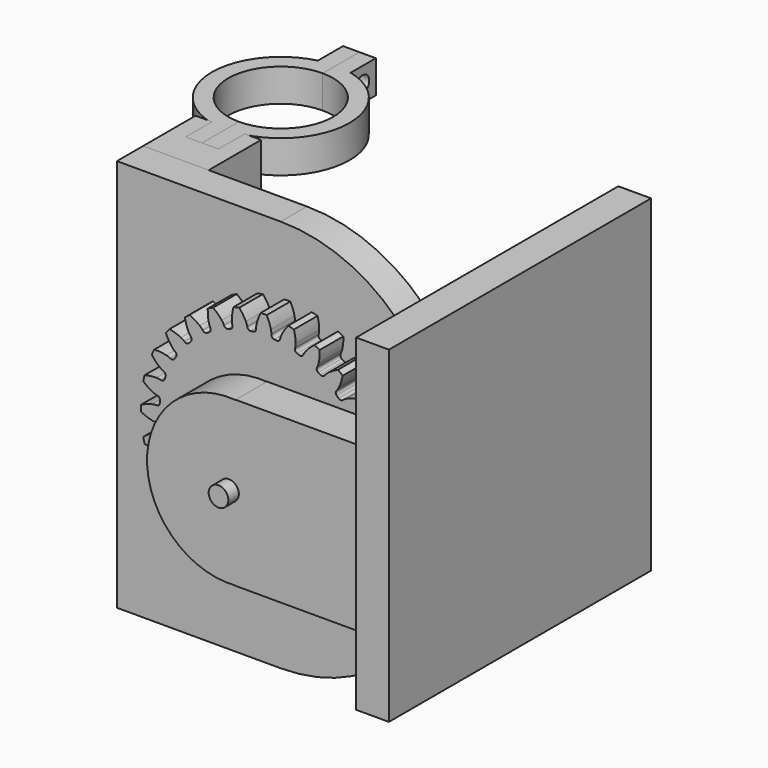
from build123d import *

# Parameters (mm, degrees)
EXTRUDE_DEPTH             = 10
EXTRUDE_PLACEMENT_ANGLE   = 90
CYLINDER017_R             = 3
CYLINDER017_DEPTH         = 12
CYLINDER016_R             = 25
CYLINDER016_DEPTH         = 12
BOX015_W                  = 70
BOX015_H                  = 50
BOX015_DEPTH              = 12
FUSION008_PLACEMENT_ANGLE = 90
CYLINDER019_R             = 3
CYLINDER019_DEPTH         = 12
CYLINDER018_R             = 25
CYLINDER018_DEPTH         = 12
BOX016_W                  = 70
BOX016_H                  = 50
BOX016_DEPTH              = 12
FUSION009_PLACEMENT_ANGLE = 90
BOX017_W                  = 10
BOX017_H                  = 100
BOX017_DEPTH              = 100
CYLINDER020_R             = 3
CYLINDER020_DEPTH         = 60
BOX014_W                  = 100
BOX014_H                  = 10
BOX014_DEPTH              = 120
FILLET_R                  = 50
FILLET001_R               = 50
CYLINDER023_R             = 16
CYLINDER023_DEPTH         = 10
BOX001_W                  = 21
BOX001_H                  = 60
BOX001_DEPTH              = 10
CYLINDER003_R             = 2.5
CYLINDER003_DEPTH         = 10
CYLINDER_R                = 2.5
CYLINDER_DEPTH            = 10
CYLINDER021_R             = 16
CYLINDER021_DEPTH         = 10
CYLINDER022_R             = 21
CYLINDER022_DEPTH         = 10
BOX_W                     = 10
BOX_H                     = 60
BOX_DEPTH                 = 10
CUT021_PLACEMENT_ANGLE    = 180
CYLINDER028_R             = 16
CYLINDER028_DEPTH         = 10
BOX019_W                  = 21
BOX019_H                  = 60
BOX019_DEPTH              = 10
CYLINDER024_R             = 2.5
CYLINDER024_DEPTH         = 10
CYLINDER025_R             = 2.5
CYLINDER025_DEPTH         = 10
CYLINDER026_R             = 16
CYLINDER026_DEPTH         = 10
CYLINDER027_R             = 21
CYLINDER027_DEPTH         = 10
BOX018_W                  = 10
BOX018_H                  = 60
BOX018_DEPTH              = 10
CYLINDER033_R             = 16
CYLINDER033_DEPTH         = 10
BOX021_W                  = 21
BOX021_H                  = 60
BOX021_DEPTH              = 10
CYLINDER029_R             = 2.5
CYLINDER029_DEPTH         = 10
CYLINDER030_R             = 2.5
CYLINDER030_DEPTH         = 10
CYLINDER031_R             = 16
CYLINDER031_DEPTH         = 10
CYLINDER032_R             = 21
CYLINDER032_DEPTH         = 10
BOX020_W                  = 10
BOX020_H                  = 60
BOX020_DEPTH              = 10
CUT027_PLACEMENT_ANGLE    = 180
CYLINDER038_R             = 16
CYLINDER038_DEPTH         = 10
BOX023_W                  = 21
BOX023_H                  = 60
BOX023_DEPTH              = 10
CYLINDER035_R             = 2.5
CYLINDER035_DEPTH         = 10
CYLINDER036_R             = 2.5
CYLINDER036_DEPTH         = 10
CYLINDER037_R             = 16
CYLINDER037_DEPTH         = 10
CYLINDER034_R             = 21
CYLINDER034_DEPTH         = 10
BOX022_W                  = 10
BOX022_H                  = 60
BOX022_DEPTH              = 10
BOX012_W                  = 10
BOX012_H                  = 10
BOX012_DEPTH              = 120
BOX013_W                  = 20
BOX013_H                  = 20
BOX013_DEPTH              = 120


with BuildPart() as extrude_body:
    # InvoluteGear → Extrude (new body)
    with BuildSketch(Plane.XY):
        with BuildLine():
            Line((32.716459, -2.32692), (32.856946, -2.335013))
            add(Edge.make_bspline(
                [(32.856946, -2.335013), (32.990949, -2.337125), (33.394798, -2.328721), (34.06713, -2.188651)],
                knots=[0, 0, 0, 0, 1, 1, 1, 1], degree=3))
            add(Edge.make_bspline(
                [(34.06713, -2.188651), (34.873016, -2.018801), (36.038338, -1.661329), (37.491435, -0.912795)],
                knots=[0, 0, 0, 0, 1, 1, 1, 1], degree=3))
            ThreePointArc((37.491435, -0.912795), (37.502546, 0), (37.491435, 0.912795))
            add(Edge.make_bspline(
                [(37.491435, 0.912795), (36.038338, 1.661329), (34.873016, 2.018801), (34.06713, 2.188651)],
                knots=[0, 0, 0, 0, 1, 1, 1, 1], degree=3))
            add(Edge.make_bspline(
                [(34.06713, 2.188651), (33.394798, 2.328721), (32.990949, 2.337125), (32.856946, 2.335013)],
                knots=[0, 0, 0, 0, 1, 1, 1, 1], degree=3))
            Line((32.856946, 2.335013), (32.716459, 2.32692))
            ThreePointArc((32.716459, 2.32692), (32.04606, 2.544962), (31.71713, 3.168486))
            ThreePointArc((31.71713, 3.168486), (31.674577, 3.568868), (31.62697, 3.96868))
            ThreePointArc((31.62697, 3.96868), (31.808906, 4.649765), (32.413977, 5.011518))
            Line((32.413977, 5.011518), (32.552743, 5.034889))
            add(Edge.make_bspline(
                [(32.552743, 5.034889), (32.683857, 5.062649), (33.07571, 5.160707), (33.700017, 5.446872)],
                knots=[0, 0, 0, 0, 1, 1, 1, 1], degree=3))
            add(Edge.make_bspline(
                [(33.700017, 5.446872), (34.447903, 5.791791), (35.504462, 6.399608), (36.754562, 7.45272)],
                knots=[0, 0, 0, 0, 1, 1, 1, 1], degree=3))
            ThreePointArc((36.754562, 7.45272), (36.562279, 8.345102), (36.348331, 9.232538))
            add(Edge.make_bspline(
                [(36.348331, 9.232538), (34.765101, 9.638961), (33.549452, 9.728162), (32.725976, 9.714427)],
                knots=[0, 0, 0, 0, 1, 1, 1, 1], degree=3))
            add(Edge.make_bspline(
                [(32.725976, 9.714427), (32.039332, 9.701377), (31.643738, 9.619705), (31.513565, 9.587827)],
                knots=[0, 0, 0, 0, 1, 1, 1, 1], degree=3))
            Line((31.513565, 9.587827), (31.378401, 9.548676))
            ThreePointArc((31.378401, 9.548676), (30.676291, 9.612074), (30.216861, 10.146771))
            ThreePointArc((30.216861, 10.146771), (30.086281, 10.527645), (29.950901, 10.90684))
            ThreePointArc((29.950901, 10.90684), (29.97672, 11.611333), (30.486124, 12.098658))
            Line((30.486124, 12.098658), (30.61621, 12.152321))
            add(Edge.make_bspline(
                [(30.61621, 12.152321), (30.737859, 12.20856), (31.098067, 12.391355), (31.643044, 12.809267)],
                knots=[0, 0, 0, 0, 1, 1, 1, 1], degree=3))
            add(Edge.make_bspline(
                [(31.643044, 12.809267), (32.295427, 13.311958), (33.190244, 14.139643), (34.174663, 15.444524)],
                knots=[0, 0, 0, 0, 1, 1, 1, 1], degree=3))
            ThreePointArc((34.174663, 15.444524), (33.788626, 16.271745), (33.382569, 17.089324))
            add(Edge.make_bspline(
                [(33.382569, 17.089324), (31.748597, 17.133255), (30.543577, 16.949712), (29.743804, 16.753081)],
                knots=[0, 0, 0, 0, 1, 1, 1, 1], degree=3))
            add(Edge.make_bspline(
                [(29.743804, 16.753081), (29.077279, 16.587565), (28.709778, 16.419913), (28.589961, 16.359868)],
                knots=[0, 0, 0, 0, 1, 1, 1, 1], degree=3))
            Line((28.589961, 16.359868), (28.466899, 16.291622))
            ThreePointArc((28.466899, 16.291622), (27.768285, 16.197196), (27.201392, 16.616254))
            ThreePointArc((27.201392, 16.616254), (26.989334, 16.958522), (26.772969, 17.298085))
            ThreePointArc((26.772969, 17.298085), (26.641377, 17.99066), (27.029568, 18.57912))
            Line((27.029568, 18.57912), (27.144452, 18.660384))
            add(Edge.make_bspline(
                [(27.144452, 18.660384), (27.250536, 18.742283), (27.561038, 19.000649), (27.999357, 19.529352)],
                knots=[0, 0, 0, 0, 1, 1, 1, 1], degree=3))
            add(Edge.make_bspline(
                [(27.999357, 19.529352), (28.523524, 20.164608), (29.211729, 21.170657), (29.881102, 22.661876)],
                knots=[0, 0, 0, 0, 1, 1, 1, 1], degree=3))
            ThreePointArc((29.881102, 22.661876), (29.320671, 23.382455), (28.742866, 24.089179))
            add(Edge.make_bspline(
                [(28.742866, 24.089179), (27.140085, 23.768415), (26.00612, 23.321332), (25.270153, 22.951665)],
                knots=[0, 0, 0, 0, 1, 1, 1, 1], degree=3))
            add(Edge.make_bspline(
                [(25.270153, 22.951665), (24.657171, 22.641983), (24.336189, 22.396758), (24.232738, 22.311557)],
                knots=[0, 0, 0, 0, 1, 1, 1, 1], degree=3))
            Line((24.232738, 22.311557), (24.127947, 22.217638))
            ThreePointArc((24.127947, 22.217638), (23.467861, 21.970123), (22.821932, 22.252529))
            ThreePointArc((22.821932, 22.252529), (22.539029, 22.539029), (22.252529, 22.821932))
            ThreePointArc((22.252529, 22.821932), (21.970123, 23.467861), (22.217638, 24.127947))
            Line((22.217638, 24.127947), (22.311557, 24.232738))
            add(Edge.make_bspline(
                [(22.311557, 24.232738), (22.396758, 24.336189), (22.641983, 24.657171), (22.951665, 25.270153)],
                knots=[0, 0, 0, 0, 1, 1, 1, 1], degree=3))
            add(Edge.make_bspline(
                [(22.951665, 25.270153), (23.321332, 26.00612), (23.768415, 27.140085), (24.089179, 28.742866)],
                knots=[0, 0, 0, 0, 1, 1, 1, 1], degree=3))
            ThreePointArc((24.089179, 28.742866), (23.382455, 29.320671), (22.661876, 29.881102))
            add(Edge.make_bspline(
                [(22.661876, 29.881102), (21.170657, 29.211729), (20.164608, 28.523524), (19.529352, 27.999357)],
                knots=[0, 0, 0, 0, 1, 1, 1, 1], degree=3))
            add(Edge.make_bspline(
                [(19.529352, 27.999357), (19.000649, 27.561038), (18.742283, 27.250536), (18.660384, 27.144452)],
                knots=[0, 0, 0, 0, 1, 1, 1, 1], degree=3))
            Line((18.660384, 27.144452), (18.57912, 27.029568))
            ThreePointArc((18.57912, 27.029568), (17.99066, 26.641377), (17.298085, 26.772969))
            ThreePointArc((17.298085, 26.772969), (16.958522, 26.989334), (16.616254, 27.201392))
            ThreePointArc((16.616254, 27.201392), (16.197196, 27.768285), (16.291622, 28.466899))
            Line((16.291622, 28.466899), (16.359868, 28.589961))
            add(Edge.make_bspline(
                [(16.359868, 28.589961), (16.419913, 28.709778), (16.587565, 29.077279), (16.753081, 29.743804)],
                knots=[0, 0, 0, 0, 1, 1, 1, 1], degree=3))
            add(Edge.make_bspline(
                [(16.753081, 29.743804), (16.949712, 30.543577), (17.133255, 31.748597), (17.089324, 33.382569)],
                knots=[0, 0, 0, 0, 1, 1, 1, 1], degree=3))
            ThreePointArc((17.089324, 33.382569), (16.271745, 33.788626), (15.444524, 34.174663))
            add(Edge.make_bspline(
                [(15.444524, 34.174663), (14.139643, 33.190244), (13.311958, 32.295427), (12.809267, 31.643044)],
                knots=[0, 0, 0, 0, 1, 1, 1, 1], degree=3))
            add(Edge.make_bspline(
                [(12.809267, 31.643044), (12.391355, 31.098067), (12.20856, 30.737859), (12.152321, 30.61621)],
                knots=[0, 0, 0, 0, 1, 1, 1, 1], degree=3))
            Line((12.152321, 30.61621), (12.098658, 30.486124))
            ThreePointArc((12.098658, 30.486124), (11.611333, 29.97672), (10.90684, 29.950901))
            ThreePointArc((10.90684, 29.950901), (10.527645, 30.086281), (10.146771, 30.216861))
            ThreePointArc((10.146771, 30.216861), (9.612074, 30.676291), (9.548676, 31.378401))
            Line((9.548676, 31.378401), (9.587827, 31.513565))
            add(Edge.make_bspline(
                [(9.587827, 31.513565), (9.619705, 31.643738), (9.701377, 32.039332), (9.714427, 32.725976)],
                knots=[0, 0, 0, 0, 1, 1, 1, 1], degree=3))
            add(Edge.make_bspline(
                [(9.714427, 32.725976), (9.728162, 33.549452), (9.638961, 34.765101), (9.232538, 36.348331)],
                knots=[0, 0, 0, 0, 1, 1, 1, 1], degree=3))
            ThreePointArc((9.232538, 36.348331), (8.345102, 36.562279), (7.45272, 36.754562))
            add(Edge.make_bspline(
                [(7.45272, 36.754562), (6.399608, 35.504462), (5.791791, 34.447903), (5.446872, 33.700017)],
                knots=[0, 0, 0, 0, 1, 1, 1, 1], degree=3))
            add(Edge.make_bspline(
                [(5.446872, 33.700017), (5.160707, 33.07571), (5.062649, 32.683857), (5.034889, 32.552743)],
                knots=[0, 0, 0, 0, 1, 1, 1, 1], degree=3))
            Line((5.034889, 32.552743), (5.011518, 32.413977))
            ThreePointArc((5.011518, 32.413977), (4.649765, 31.808906), (3.96868, 31.62697))
            ThreePointArc((3.96868, 31.62697), (3.568868, 31.674577), (3.168486, 31.71713))
            ThreePointArc((3.168486, 31.71713), (2.544962, 32.04606), (2.32692, 32.716459))
            Line((2.32692, 32.716459), (2.335013, 32.856946))
            add(Edge.make_bspline(
                [(2.335013, 32.856946), (2.337125, 32.990949), (2.328721, 33.394798), (2.188651, 34.06713)],
                knots=[0, 0, 0, 0, 1, 1, 1, 1], degree=3))
            add(Edge.make_bspline(
                [(2.188651, 34.06713), (2.018801, 34.873016), (1.661329, 36.038338), (0.912795, 37.491435)],
                knots=[0, 0, 0, 0, 1, 1, 1, 1], degree=3))
            ThreePointArc((0.912795, 37.491435), (0, 37.502546), (-0.912795, 37.491435))
            add(Edge.make_bspline(
                [(-0.912795, 37.491435), (-1.661329, 36.038338), (-2.018801, 34.873016), (-2.188651, 34.06713)],
                knots=[0, 0, 0, 0, 1, 1, 1, 1], degree=3))
            add(Edge.make_bspline(
                [(-2.188651, 34.06713), (-2.328721, 33.394798), (-2.337125, 32.990949), (-2.335013, 32.856946)],
                knots=[0, 0, 0, 0, 1, 1, 1, 1], degree=3))
            Line((-2.335013, 32.856946), (-2.32692, 32.716459))
            ThreePointArc((-2.32692, 32.716459), (-2.544962, 32.04606), (-3.168486, 31.71713))
            ThreePointArc((-3.168486, 31.71713), (-3.568868, 31.674577), (-3.96868, 31.62697))
            ThreePointArc((-3.96868, 31.62697), (-4.649765, 31.808906), (-5.011518, 32.413977))
            Line((-5.011518, 32.413977), (-5.034889, 32.552743))
            add(Edge.make_bspline(
                [(-5.034889, 32.552743), (-5.062649, 32.683857), (-5.160707, 33.07571), (-5.446872, 33.700017)],
                knots=[0, 0, 0, 0, 1, 1, 1, 1], degree=3))
            add(Edge.make_bspline(
                [(-5.446872, 33.700017), (-5.791791, 34.447903), (-6.399608, 35.504462), (-7.45272, 36.754562)],
                knots=[0, 0, 0, 0, 1, 1, 1, 1], degree=3))
            ThreePointArc((-7.45272, 36.754562), (-8.345102, 36.562279), (-9.232538, 36.348331))
            add(Edge.make_bspline(
                [(-9.232538, 36.348331), (-9.638961, 34.765101), (-9.728162, 33.549452), (-9.714427, 32.725976)],
                knots=[0, 0, 0, 0, 1, 1, 1, 1], degree=3))
            add(Edge.make_bspline(
                [(-9.714427, 32.725976), (-9.701377, 32.039332), (-9.619705, 31.643738), (-9.587827, 31.513565)],
                knots=[0, 0, 0, 0, 1, 1, 1, 1], degree=3))
            Line((-9.587827, 31.513565), (-9.548676, 31.378401))
            ThreePointArc((-9.548676, 31.378401), (-9.612074, 30.676291), (-10.146771, 30.216861))
            ThreePointArc((-10.146771, 30.216861), (-10.527645, 30.086281), (-10.90684, 29.950901))
            ThreePointArc((-10.90684, 29.950901), (-11.611333, 29.97672), (-12.098658, 30.486124))
            Line((-12.098658, 30.486124), (-12.152321, 30.61621))
            add(Edge.make_bspline(
                [(-12.152321, 30.61621), (-12.20856, 30.737859), (-12.391355, 31.098067), (-12.809267, 31.643044)],
                knots=[0, 0, 0, 0, 1, 1, 1, 1], degree=3))
            add(Edge.make_bspline(
                [(-12.809267, 31.643044), (-13.311958, 32.295427), (-14.139643, 33.190244), (-15.444524, 34.174663)],
                knots=[0, 0, 0, 0, 1, 1, 1, 1], degree=3))
            ThreePointArc((-15.444524, 34.174663), (-16.271745, 33.788626), (-17.089324, 33.382569))
            add(Edge.make_bspline(
                [(-17.089324, 33.382569), (-17.133255, 31.748597), (-16.949712, 30.543577), (-16.753081, 29.743804)],
                knots=[0, 0, 0, 0, 1, 1, 1, 1], degree=3))
            add(Edge.make_bspline(
                [(-16.753081, 29.743804), (-16.587565, 29.077279), (-16.419913, 28.709778), (-16.359868, 28.589961)],
                knots=[0, 0, 0, 0, 1, 1, 1, 1], degree=3))
            Line((-16.359868, 28.589961), (-16.291622, 28.466899))
            ThreePointArc((-16.291622, 28.466899), (-16.197196, 27.768285), (-16.616254, 27.201392))
            ThreePointArc((-16.616254, 27.201392), (-16.958522, 26.989334), (-17.298085, 26.772969))
            ThreePointArc((-17.298085, 26.772969), (-17.99066, 26.641377), (-18.57912, 27.029568))
            Line((-18.57912, 27.029568), (-18.660384, 27.144452))
            add(Edge.make_bspline(
                [(-18.660384, 27.144452), (-18.742283, 27.250536), (-19.000649, 27.561038), (-19.529352, 27.999357)],
                knots=[0, 0, 0, 0, 1, 1, 1, 1], degree=3))
            add(Edge.make_bspline(
                [(-19.529352, 27.999357), (-20.164608, 28.523524), (-21.170657, 29.211729), (-22.661876, 29.881102)],
                knots=[0, 0, 0, 0, 1, 1, 1, 1], degree=3))
            ThreePointArc((-22.661876, 29.881102), (-23.382455, 29.320671), (-24.089179, 28.742866))
            add(Edge.make_bspline(
                [(-24.089179, 28.742866), (-23.768415, 27.140085), (-23.321332, 26.00612), (-22.951665, 25.270153)],
                knots=[0, 0, 0, 0, 1, 1, 1, 1], degree=3))
            add(Edge.make_bspline(
                [(-22.951665, 25.270153), (-22.641983, 24.657171), (-22.396758, 24.336189), (-22.311557, 24.232738)],
                knots=[0, 0, 0, 0, 1, 1, 1, 1], degree=3))
            Line((-22.311557, 24.232738), (-22.217638, 24.127947))
            ThreePointArc((-22.217638, 24.127947), (-21.970123, 23.467861), (-22.252529, 22.821932))
            ThreePointArc((-22.252529, 22.821932), (-22.539029, 22.539029), (-22.821932, 22.252529))
            ThreePointArc((-22.821932, 22.252529), (-23.467861, 21.970123), (-24.127947, 22.217638))
            Line((-24.127947, 22.217638), (-24.232738, 22.311557))
            add(Edge.make_bspline(
                [(-24.232738, 22.311557), (-24.336189, 22.396758), (-24.657171, 22.641983), (-25.270153, 22.951665)],
                knots=[0, 0, 0, 0, 1, 1, 1, 1], degree=3))
            add(Edge.make_bspline(
                [(-25.270153, 22.951665), (-26.00612, 23.321332), (-27.140085, 23.768415), (-28.742866, 24.089179)],
                knots=[0, 0, 0, 0, 1, 1, 1, 1], degree=3))
            ThreePointArc((-28.742866, 24.089179), (-29.320671, 23.382455), (-29.881102, 22.661876))
            add(Edge.make_bspline(
                [(-29.881102, 22.661876), (-29.211729, 21.170657), (-28.523524, 20.164608), (-27.999357, 19.529352)],
                knots=[0, 0, 0, 0, 1, 1, 1, 1], degree=3))
            add(Edge.make_bspline(
                [(-27.999357, 19.529352), (-27.561038, 19.000649), (-27.250536, 18.742283), (-27.144452, 18.660384)],
                knots=[0, 0, 0, 0, 1, 1, 1, 1], degree=3))
            Line((-27.144452, 18.660384), (-27.029568, 18.57912))
            ThreePointArc((-27.029568, 18.57912), (-26.641377, 17.99066), (-26.772969, 17.298085))
            ThreePointArc((-26.772969, 17.298085), (-26.989334, 16.958522), (-27.201392, 16.616254))
            ThreePointArc((-27.201392, 16.616254), (-27.768285, 16.197196), (-28.466899, 16.291622))
            Line((-28.466899, 16.291622), (-28.589961, 16.359868))
            add(Edge.make_bspline(
                [(-28.589961, 16.359868), (-28.709778, 16.419913), (-29.077279, 16.587565), (-29.743804, 16.753081)],
                knots=[0, 0, 0, 0, 1, 1, 1, 1], degree=3))
            add(Edge.make_bspline(
                [(-29.743804, 16.753081), (-30.543577, 16.949712), (-31.748597, 17.133255), (-33.382569, 17.089324)],
                knots=[0, 0, 0, 0, 1, 1, 1, 1], degree=3))
            ThreePointArc((-33.382569, 17.089324), (-33.788626, 16.271745), (-34.174663, 15.444524))
            add(Edge.make_bspline(
                [(-34.174663, 15.444524), (-33.190244, 14.139643), (-32.295427, 13.311958), (-31.643044, 12.809267)],
                knots=[0, 0, 0, 0, 1, 1, 1, 1], degree=3))
            add(Edge.make_bspline(
                [(-31.643044, 12.809267), (-31.098067, 12.391355), (-30.737859, 12.20856), (-30.61621, 12.152321)],
                knots=[0, 0, 0, 0, 1, 1, 1, 1], degree=3))
            Line((-30.61621, 12.152321), (-30.486124, 12.098658))
            ThreePointArc((-30.486124, 12.098658), (-29.97672, 11.611333), (-29.950901, 10.90684))
            ThreePointArc((-29.950901, 10.90684), (-30.086281, 10.527645), (-30.216861, 10.146771))
            ThreePointArc((-30.216861, 10.146771), (-30.676291, 9.612074), (-31.378401, 9.548676))
            Line((-31.378401, 9.548676), (-31.513565, 9.587827))
            add(Edge.make_bspline(
                [(-31.513565, 9.587827), (-31.643738, 9.619705), (-32.039332, 9.701377), (-32.725976, 9.714427)],
                knots=[0, 0, 0, 0, 1, 1, 1, 1], degree=3))
            add(Edge.make_bspline(
                [(-32.725976, 9.714427), (-33.549452, 9.728162), (-34.765101, 9.638961), (-36.348331, 9.232538)],
                knots=[0, 0, 0, 0, 1, 1, 1, 1], degree=3))
            ThreePointArc((-36.348331, 9.232538), (-36.562279, 8.345102), (-36.754562, 7.45272))
            add(Edge.make_bspline(
                [(-36.754562, 7.45272), (-35.504462, 6.399608), (-34.447903, 5.791791), (-33.700017, 5.446872)],
                knots=[0, 0, 0, 0, 1, 1, 1, 1], degree=3))
            add(Edge.make_bspline(
                [(-33.700017, 5.446872), (-33.07571, 5.160707), (-32.683857, 5.062649), (-32.552743, 5.034889)],
                knots=[0, 0, 0, 0, 1, 1, 1, 1], degree=3))
            Line((-32.552743, 5.034889), (-32.413977, 5.011518))
            ThreePointArc((-32.413977, 5.011518), (-31.808906, 4.649765), (-31.62697, 3.96868))
            ThreePointArc((-31.62697, 3.96868), (-31.674577, 3.568868), (-31.71713, 3.168486))
            ThreePointArc((-31.71713, 3.168486), (-32.04606, 2.544962), (-32.716459, 2.32692))
            Line((-32.716459, 2.32692), (-32.856946, 2.335013))
            add(Edge.make_bspline(
                [(-32.856946, 2.335013), (-32.990949, 2.337125), (-33.394798, 2.328721), (-34.06713, 2.188651)],
                knots=[0, 0, 0, 0, 1, 1, 1, 1], degree=3))
            add(Edge.make_bspline(
                [(-34.06713, 2.188651), (-34.873016, 2.018801), (-36.038338, 1.661329), (-37.491435, 0.912795)],
                knots=[0, 0, 0, 0, 1, 1, 1, 1], degree=3))
            ThreePointArc((-37.491435, 0.912795), (-37.502546, 0), (-37.491435, -0.912795))
            add(Edge.make_bspline(
                [(-37.491435, -0.912795), (-36.038338, -1.661329), (-34.873016, -2.018801), (-34.06713, -2.188651)],
                knots=[0, 0, 0, 0, 1, 1, 1, 1], degree=3))
            add(Edge.make_bspline(
                [(-34.06713, -2.188651), (-33.394798, -2.328721), (-32.990949, -2.337125), (-32.856946, -2.335013)],
                knots=[0, 0, 0, 0, 1, 1, 1, 1], degree=3))
            Line((-32.856946, -2.335013), (-32.716459, -2.32692))
            ThreePointArc((-32.716459, -2.32692), (-32.04606, -2.544962), (-31.71713, -3.168486))
            ThreePointArc((-31.71713, -3.168486), (-31.674577, -3.568868), (-31.62697, -3.96868))
            ThreePointArc((-31.62697, -3.96868), (-31.808906, -4.649765), (-32.413977, -5.011518))
            Line((-32.413977, -5.011518), (-32.552743, -5.034889))
            add(Edge.make_bspline(
                [(-32.552743, -5.034889), (-32.683857, -5.062649), (-33.07571, -5.160707), (-33.700017, -5.446872)],
                knots=[0, 0, 0, 0, 1, 1, 1, 1], degree=3))
            add(Edge.make_bspline(
                [(-33.700017, -5.446872), (-34.447903, -5.791791), (-35.504462, -6.399608), (-36.754562, -7.45272)],
                knots=[0, 0, 0, 0, 1, 1, 1, 1], degree=3))
            ThreePointArc((-36.754562, -7.45272), (-36.562279, -8.345102), (-36.348331, -9.232538))
            add(Edge.make_bspline(
                [(-36.348331, -9.232538), (-34.765101, -9.638961), (-33.549452, -9.728162), (-32.725976, -9.714427)],
                knots=[0, 0, 0, 0, 1, 1, 1, 1], degree=3))
            add(Edge.make_bspline(
                [(-32.725976, -9.714427), (-32.039332, -9.701377), (-31.643738, -9.619705), (-31.513565, -9.587827)],
                knots=[0, 0, 0, 0, 1, 1, 1, 1], degree=3))
            Line((-31.513565, -9.587827), (-31.378401, -9.548676))
            ThreePointArc((-31.378401, -9.548676), (-30.676291, -9.612074), (-30.216861, -10.146771))
            ThreePointArc((-30.216861, -10.146771), (-30.086281, -10.527645), (-29.950901, -10.90684))
            ThreePointArc((-29.950901, -10.90684), (-29.97672, -11.611333), (-30.486124, -12.098658))
            Line((-30.486124, -12.098658), (-30.61621, -12.152321))
            add(Edge.make_bspline(
                [(-30.61621, -12.152321), (-30.737859, -12.20856), (-31.098067, -12.391355), (-31.643044, -12.809267)],
                knots=[0, 0, 0, 0, 1, 1, 1, 1], degree=3))
            add(Edge.make_bspline(
                [(-31.643044, -12.809267), (-32.295427, -13.311958), (-33.190244, -14.139643), (-34.174663, -15.444524)],
                knots=[0, 0, 0, 0, 1, 1, 1, 1], degree=3))
            ThreePointArc((-34.174663, -15.444524), (-33.788626, -16.271745), (-33.382569, -17.089324))
            add(Edge.make_bspline(
                [(-33.382569, -17.089324), (-31.748597, -17.133255), (-30.543577, -16.949712), (-29.743804, -16.753081)],
                knots=[0, 0, 0, 0, 1, 1, 1, 1], degree=3))
            add(Edge.make_bspline(
                [(-29.743804, -16.753081), (-29.077279, -16.587565), (-28.709778, -16.419913), (-28.589961, -16.359868)],
                knots=[0, 0, 0, 0, 1, 1, 1, 1], degree=3))
            Line((-28.589961, -16.359868), (-28.466899, -16.291622))
            ThreePointArc((-28.466899, -16.291622), (-27.768285, -16.197196), (-27.201392, -16.616254))
            ThreePointArc((-27.201392, -16.616254), (-26.989334, -16.958522), (-26.772969, -17.298085))
            ThreePointArc((-26.772969, -17.298085), (-26.641377, -17.99066), (-27.029568, -18.57912))
            Line((-27.029568, -18.57912), (-27.144452, -18.660384))
            add(Edge.make_bspline(
                [(-27.144452, -18.660384), (-27.250536, -18.742283), (-27.561038, -19.000649), (-27.999357, -19.529352)],
                knots=[0, 0, 0, 0, 1, 1, 1, 1], degree=3))
            add(Edge.make_bspline(
                [(-27.999357, -19.529352), (-28.523524, -20.164608), (-29.211729, -21.170657), (-29.881102, -22.661876)],
                knots=[0, 0, 0, 0, 1, 1, 1, 1], degree=3))
            ThreePointArc((-29.881102, -22.661876), (-29.320671, -23.382455), (-28.742866, -24.089179))
            add(Edge.make_bspline(
                [(-28.742866, -24.089179), (-27.140085, -23.768415), (-26.00612, -23.321332), (-25.270153, -22.951665)],
                knots=[0, 0, 0, 0, 1, 1, 1, 1], degree=3))
            add(Edge.make_bspline(
                [(-25.270153, -22.951665), (-24.657171, -22.641983), (-24.336189, -22.396758), (-24.232738, -22.311557)],
                knots=[0, 0, 0, 0, 1, 1, 1, 1], degree=3))
            Line((-24.232738, -22.311557), (-24.127947, -22.217638))
            ThreePointArc((-24.127947, -22.217638), (-23.467861, -21.970123), (-22.821932, -22.252529))
            ThreePointArc((-22.821932, -22.252529), (-22.539029, -22.539029), (-22.252529, -22.821932))
            ThreePointArc((-22.252529, -22.821932), (-21.970123, -23.467861), (-22.217638, -24.127947))
            Line((-22.217638, -24.127947), (-22.311557, -24.232738))
            add(Edge.make_bspline(
                [(-22.311557, -24.232738), (-22.396758, -24.336189), (-22.641983, -24.657171), (-22.951665, -25.270153)],
                knots=[0, 0, 0, 0, 1, 1, 1, 1], degree=3))
            add(Edge.make_bspline(
                [(-22.951665, -25.270153), (-23.321332, -26.00612), (-23.768415, -27.140085), (-24.089179, -28.742866)],
                knots=[0, 0, 0, 0, 1, 1, 1, 1], degree=3))
            ThreePointArc((-24.089179, -28.742866), (-23.382455, -29.320671), (-22.661876, -29.881102))
            add(Edge.make_bspline(
                [(-22.661876, -29.881102), (-21.170657, -29.211729), (-20.164608, -28.523524), (-19.529352, -27.999357)],
                knots=[0, 0, 0, 0, 1, 1, 1, 1], degree=3))
            add(Edge.make_bspline(
                [(-19.529352, -27.999357), (-19.000649, -27.561038), (-18.742283, -27.250536), (-18.660384, -27.144452)],
                knots=[0, 0, 0, 0, 1, 1, 1, 1], degree=3))
            Line((-18.660384, -27.144452), (-18.57912, -27.029568))
            ThreePointArc((-18.57912, -27.029568), (-17.99066, -26.641377), (-17.298085, -26.772969))
            ThreePointArc((-17.298085, -26.772969), (-16.958522, -26.989334), (-16.616254, -27.201392))
            ThreePointArc((-16.616254, -27.201392), (-16.197196, -27.768285), (-16.291622, -28.466899))
            Line((-16.291622, -28.466899), (-16.359868, -28.589961))
            add(Edge.make_bspline(
                [(-16.359868, -28.589961), (-16.419913, -28.709778), (-16.587565, -29.077279), (-16.753081, -29.743804)],
                knots=[0, 0, 0, 0, 1, 1, 1, 1], degree=3))
            add(Edge.make_bspline(
                [(-16.753081, -29.743804), (-16.949712, -30.543577), (-17.133255, -31.748597), (-17.089324, -33.382569)],
                knots=[0, 0, 0, 0, 1, 1, 1, 1], degree=3))
            ThreePointArc((-17.089324, -33.382569), (-16.271745, -33.788626), (-15.444524, -34.174663))
            add(Edge.make_bspline(
                [(-15.444524, -34.174663), (-14.139643, -33.190244), (-13.311958, -32.295427), (-12.809267, -31.643044)],
                knots=[0, 0, 0, 0, 1, 1, 1, 1], degree=3))
            add(Edge.make_bspline(
                [(-12.809267, -31.643044), (-12.391355, -31.098067), (-12.20856, -30.737859), (-12.152321, -30.61621)],
                knots=[0, 0, 0, 0, 1, 1, 1, 1], degree=3))
            Line((-12.152321, -30.61621), (-12.098658, -30.486124))
            ThreePointArc((-12.098658, -30.486124), (-11.611333, -29.97672), (-10.90684, -29.950901))
            ThreePointArc((-10.90684, -29.950901), (-10.527645, -30.086281), (-10.146771, -30.216861))
            ThreePointArc((-10.146771, -30.216861), (-9.612074, -30.676291), (-9.548676, -31.378401))
            Line((-9.548676, -31.378401), (-9.587827, -31.513565))
            add(Edge.make_bspline(
                [(-9.587827, -31.513565), (-9.619705, -31.643738), (-9.701377, -32.039332), (-9.714427, -32.725976)],
                knots=[0, 0, 0, 0, 1, 1, 1, 1], degree=3))
            add(Edge.make_bspline(
                [(-9.714427, -32.725976), (-9.728162, -33.549452), (-9.638961, -34.765101), (-9.232538, -36.348331)],
                knots=[0, 0, 0, 0, 1, 1, 1, 1], degree=3))
            ThreePointArc((-9.232538, -36.348331), (-8.345102, -36.562279), (-7.45272, -36.754562))
            add(Edge.make_bspline(
                [(-7.45272, -36.754562), (-6.399608, -35.504462), (-5.791791, -34.447903), (-5.446872, -33.700017)],
                knots=[0, 0, 0, 0, 1, 1, 1, 1], degree=3))
            add(Edge.make_bspline(
                [(-5.446872, -33.700017), (-5.160707, -33.07571), (-5.062649, -32.683857), (-5.034889, -32.552743)],
                knots=[0, 0, 0, 0, 1, 1, 1, 1], degree=3))
            Line((-5.034889, -32.552743), (-5.011518, -32.413977))
            ThreePointArc((-5.011518, -32.413977), (-4.649765, -31.808906), (-3.96868, -31.62697))
            ThreePointArc((-3.96868, -31.62697), (-3.568868, -31.674577), (-3.168486, -31.71713))
            ThreePointArc((-3.168486, -31.71713), (-2.544962, -32.04606), (-2.32692, -32.716459))
            Line((-2.32692, -32.716459), (-2.335013, -32.856946))
            add(Edge.make_bspline(
                [(-2.335013, -32.856946), (-2.337125, -32.990949), (-2.328721, -33.394798), (-2.188651, -34.06713)],
                knots=[0, 0, 0, 0, 1, 1, 1, 1], degree=3))
            add(Edge.make_bspline(
                [(-2.188651, -34.06713), (-2.018801, -34.873016), (-1.661329, -36.038338), (-0.912795, -37.491435)],
                knots=[0, 0, 0, 0, 1, 1, 1, 1], degree=3))
            ThreePointArc((-0.912795, -37.491435), (0, -37.502546), (0.912795, -37.491435))
            add(Edge.make_bspline(
                [(0.912795, -37.491435), (1.661329, -36.038338), (2.018801, -34.873016), (2.188651, -34.06713)],
                knots=[0, 0, 0, 0, 1, 1, 1, 1], degree=3))
            add(Edge.make_bspline(
                [(2.188651, -34.06713), (2.328721, -33.394798), (2.337125, -32.990949), (2.335013, -32.856946)],
                knots=[0, 0, 0, 0, 1, 1, 1, 1], degree=3))
            Line((2.335013, -32.856946), (2.32692, -32.716459))
            ThreePointArc((2.32692, -32.716459), (2.544962, -32.04606), (3.168486, -31.71713))
            ThreePointArc((3.168486, -31.71713), (3.568868, -31.674577), (3.96868, -31.62697))
            ThreePointArc((3.96868, -31.62697), (4.649765, -31.808906), (5.011518, -32.413977))
            Line((5.011518, -32.413977), (5.034889, -32.552743))
            add(Edge.make_bspline(
                [(5.034889, -32.552743), (5.062649, -32.683857), (5.160707, -33.07571), (5.446872, -33.700017)],
                knots=[0, 0, 0, 0, 1, 1, 1, 1], degree=3))
            add(Edge.make_bspline(
                [(5.446872, -33.700017), (5.791791, -34.447903), (6.399608, -35.504462), (7.45272, -36.754562)],
                knots=[0, 0, 0, 0, 1, 1, 1, 1], degree=3))
            ThreePointArc((7.45272, -36.754562), (8.345102, -36.562279), (9.232538, -36.348331))
            add(Edge.make_bspline(
                [(9.232538, -36.348331), (9.638961, -34.765101), (9.728162, -33.549452), (9.714427, -32.725976)],
                knots=[0, 0, 0, 0, 1, 1, 1, 1], degree=3))
            add(Edge.make_bspline(
                [(9.714427, -32.725976), (9.701377, -32.039332), (9.619705, -31.643738), (9.587827, -31.513565)],
                knots=[0, 0, 0, 0, 1, 1, 1, 1], degree=3))
            Line((9.587827, -31.513565), (9.548676, -31.378401))
            ThreePointArc((9.548676, -31.378401), (9.612074, -30.676291), (10.146771, -30.216861))
            ThreePointArc((10.146771, -30.216861), (10.527645, -30.086281), (10.90684, -29.950901))
            ThreePointArc((10.90684, -29.950901), (11.611333, -29.97672), (12.098658, -30.486124))
            Line((12.098658, -30.486124), (12.152321, -30.61621))
            add(Edge.make_bspline(
                [(12.152321, -30.61621), (12.20856, -30.737859), (12.391355, -31.098067), (12.809267, -31.643044)],
                knots=[0, 0, 0, 0, 1, 1, 1, 1], degree=3))
            add(Edge.make_bspline(
                [(12.809267, -31.643044), (13.311958, -32.295427), (14.139643, -33.190244), (15.444524, -34.174663)],
                knots=[0, 0, 0, 0, 1, 1, 1, 1], degree=3))
            ThreePointArc((15.444524, -34.174663), (16.271745, -33.788626), (17.089324, -33.382569))
            add(Edge.make_bspline(
                [(17.089324, -33.382569), (17.133255, -31.748597), (16.949712, -30.543577), (16.753081, -29.743804)],
                knots=[0, 0, 0, 0, 1, 1, 1, 1], degree=3))
            add(Edge.make_bspline(
                [(16.753081, -29.743804), (16.587565, -29.077279), (16.419913, -28.709778), (16.359868, -28.589961)],
                knots=[0, 0, 0, 0, 1, 1, 1, 1], degree=3))
            Line((16.359868, -28.589961), (16.291622, -28.466899))
            ThreePointArc((16.291622, -28.466899), (16.197196, -27.768285), (16.616254, -27.201392))
            ThreePointArc((16.616254, -27.201392), (16.958522, -26.989334), (17.298085, -26.772969))
            ThreePointArc((17.298085, -26.772969), (17.99066, -26.641377), (18.57912, -27.029568))
            Line((18.57912, -27.029568), (18.660384, -27.144452))
            add(Edge.make_bspline(
                [(18.660384, -27.144452), (18.742283, -27.250536), (19.000649, -27.561038), (19.529352, -27.999357)],
                knots=[0, 0, 0, 0, 1, 1, 1, 1], degree=3))
            add(Edge.make_bspline(
                [(19.529352, -27.999357), (20.164608, -28.523524), (21.170657, -29.211729), (22.661876, -29.881102)],
                knots=[0, 0, 0, 0, 1, 1, 1, 1], degree=3))
            ThreePointArc((22.661876, -29.881102), (23.382455, -29.320671), (24.089179, -28.742866))
            add(Edge.make_bspline(
                [(24.089179, -28.742866), (23.768415, -27.140085), (23.321332, -26.00612), (22.951665, -25.270153)],
                knots=[0, 0, 0, 0, 1, 1, 1, 1], degree=3))
            add(Edge.make_bspline(
                [(22.951665, -25.270153), (22.641983, -24.657171), (22.396758, -24.336189), (22.311557, -24.232738)],
                knots=[0, 0, 0, 0, 1, 1, 1, 1], degree=3))
            Line((22.311557, -24.232738), (22.217638, -24.127947))
            ThreePointArc((22.217638, -24.127947), (21.970123, -23.467861), (22.252529, -22.821932))
            ThreePointArc((22.252529, -22.821932), (22.539029, -22.539029), (22.821932, -22.252529))
            ThreePointArc((22.821932, -22.252529), (23.467861, -21.970123), (24.127947, -22.217638))
            Line((24.127947, -22.217638), (24.232738, -22.311557))
            add(Edge.make_bspline(
                [(24.232738, -22.311557), (24.336189, -22.396758), (24.657171, -22.641983), (25.270153, -22.951665)],
                knots=[0, 0, 0, 0, 1, 1, 1, 1], degree=3))
            add(Edge.make_bspline(
                [(25.270153, -22.951665), (26.00612, -23.321332), (27.140085, -23.768415), (28.742866, -24.089179)],
                knots=[0, 0, 0, 0, 1, 1, 1, 1], degree=3))
            ThreePointArc((28.742866, -24.089179), (29.320671, -23.382455), (29.881102, -22.661876))
            add(Edge.make_bspline(
                [(29.881102, -22.661876), (29.211729, -21.170657), (28.523524, -20.164608), (27.999357, -19.529352)],
                knots=[0, 0, 0, 0, 1, 1, 1, 1], degree=3))
            add(Edge.make_bspline(
                [(27.999357, -19.529352), (27.561038, -19.000649), (27.250536, -18.742283), (27.144452, -18.660384)],
                knots=[0, 0, 0, 0, 1, 1, 1, 1], degree=3))
            Line((27.144452, -18.660384), (27.029568, -18.57912))
            ThreePointArc((27.029568, -18.57912), (26.641377, -17.99066), (26.772969, -17.298085))
            ThreePointArc((26.772969, -17.298085), (26.989334, -16.958522), (27.201392, -16.616254))
            ThreePointArc((27.201392, -16.616254), (27.768285, -16.197196), (28.466899, -16.291622))
            Line((28.466899, -16.291622), (28.589961, -16.359868))
            add(Edge.make_bspline(
                [(28.589961, -16.359868), (28.709778, -16.419913), (29.077279, -16.587565), (29.743804, -16.753081)],
                knots=[0, 0, 0, 0, 1, 1, 1, 1], degree=3))
            add(Edge.make_bspline(
                [(29.743804, -16.753081), (30.543577, -16.949712), (31.748597, -17.133255), (33.382569, -17.089324)],
                knots=[0, 0, 0, 0, 1, 1, 1, 1], degree=3))
            ThreePointArc((33.382569, -17.089324), (33.788626, -16.271745), (34.174663, -15.444524))
            add(Edge.make_bspline(
                [(34.174663, -15.444524), (33.190244, -14.139643), (32.295427, -13.311958), (31.643044, -12.809267)],
                knots=[0, 0, 0, 0, 1, 1, 1, 1], degree=3))
            add(Edge.make_bspline(
                [(31.643044, -12.809267), (31.098067, -12.391355), (30.737859, -12.20856), (30.61621, -12.152321)],
                knots=[0, 0, 0, 0, 1, 1, 1, 1], degree=3))
            Line((30.61621, -12.152321), (30.486124, -12.098658))
            ThreePointArc((30.486124, -12.098658), (29.97672, -11.611333), (29.950901, -10.90684))
            ThreePointArc((29.950901, -10.90684), (30.086281, -10.527645), (30.216861, -10.146771))
            ThreePointArc((30.216861, -10.146771), (30.676291, -9.612074), (31.378401, -9.548676))
            Line((31.378401, -9.548676), (31.513565, -9.587827))
            add(Edge.make_bspline(
                [(31.513565, -9.587827), (31.643738, -9.619705), (32.039332, -9.701377), (32.725976, -9.714427)],
                knots=[0, 0, 0, 0, 1, 1, 1, 1], degree=3))
            add(Edge.make_bspline(
                [(32.725976, -9.714427), (33.549452, -9.728162), (34.765101, -9.638961), (36.348331, -9.232538)],
                knots=[0, 0, 0, 0, 1, 1, 1, 1], degree=3))
            ThreePointArc((36.348331, -9.232538), (36.562279, -8.345102), (36.754562, -7.45272))
            add(Edge.make_bspline(
                [(36.754562, -7.45272), (35.504462, -6.399608), (34.447903, -5.791791), (33.700017, -5.446872)],
                knots=[0, 0, 0, 0, 1, 1, 1, 1], degree=3))
            add(Edge.make_bspline(
                [(33.700017, -5.446872), (33.07571, -5.160707), (32.683857, -5.062649), (32.552743, -5.034889)],
                knots=[0, 0, 0, 0, 1, 1, 1, 1], degree=3))
            Line((32.552743, -5.034889), (32.413977, -5.011518))
            ThreePointArc((32.413977, -5.011518), (31.808906, -4.649765), (31.62697, -3.96868))
            ThreePointArc((31.62697, -3.96868), (31.674577, -3.568868), (31.71713, -3.168486))
            ThreePointArc((31.71713, -3.168486), (32.04606, -2.544962), (32.716459, -2.32692))
        make_face()
    extrude(amount=EXTRUDE_DEPTH)


with BuildPart() as extrude_body_1:
    # Extrude placement: moved
    add(extrude_body.part.moved(Location((42, -45, 62))).rotate(Axis((42, -45, 62), (1, 0, 0)), EXTRUDE_PLACEMENT_ANGLE))


with BuildPart() as cilindro009:
    # Cylinder017 → Cylinder017 (new body)
    with BuildSketch(Plane(origin=(29, -45, -13), x_dir=(1, 0, 0), z_dir=(0, 0, 1))):
        Circle(CYLINDER017_R)
    extrude(amount=CYLINDER017_DEPTH)


with BuildPart() as cut017:
    # Cylinder016 → Cylinder016 (new body)
    with BuildSketch(Plane(origin=(29, -45, -13), x_dir=(1, 0, 0), z_dir=(0, 0, 1))):
        Circle(CYLINDER016_R)
    extrude(amount=CYLINDER016_DEPTH)

    # Cut017: cut Cilindro009
    add(cilindro009.part, mode=Mode.SUBTRACT)


with BuildPart() as lateral:
    # Box015 → Box015 (new body)
    with BuildSketch(Plane(origin=(31, -70, -13), x_dir=(1, 0, 0), z_dir=(0, 0, 1))):
        with Locations((35, 25)):
            Rectangle(BOX015_W, BOX015_H)
    extrude(amount=BOX015_DEPTH)

    # Fusion008: union Cut017
    add(cut017.part)


with BuildPart() as lateral_1:
    # Fusion008 placement: moved
    add(lateral.part.moved(Location((16, -34, 105))).rotate(Axis((16, -34, 105), (1, 0, 0)), FUSION008_PLACEMENT_ANGLE))


with BuildPart() as cilindro011:
    # Cylinder019 → Cylinder019 (new body)
    with BuildSketch(Plane(origin=(29, -45, -13), x_dir=(1, 0, 0), z_dir=(0, 0, 1))):
        Circle(CYLINDER019_R)
    extrude(amount=CYLINDER019_DEPTH)


with BuildPart() as cut018:
    # Cylinder018 → Cylinder018 (new body)
    with BuildSketch(Plane(origin=(29, -45, -13), x_dir=(1, 0, 0), z_dir=(0, 0, 1))):
        Circle(CYLINDER018_R)
    extrude(amount=CYLINDER018_DEPTH)

    # Cut018: cut Cilindro011
    add(cilindro011.part, mode=Mode.SUBTRACT)


with BuildPart() as lateral001:
    # Box016 → Box016 (new body)
    with BuildSketch(Plane(origin=(31, -70, -13), x_dir=(1, 0, 0), z_dir=(0, 0, 1))):
        with Locations((35, 25)):
            Rectangle(BOX016_W, BOX016_H)
    extrude(amount=BOX016_DEPTH)

    # Fusion009: union Cut018
    add(cut018.part)


with BuildPart() as lateral001_1:
    # Fusion009 placement: moved
    add(lateral001.part.moved(Location((16, -73, 105))).rotate(Axis((16, -73, 105), (1, 0, 0)), FUSION009_PLACEMENT_ANGLE))


with BuildPart() as cubo017:
    # Box017 → Box017 (new body)
    with BuildSketch(Plane(origin=(107, -101, 33), x_dir=(1, 0, 0), z_dir=(0, 0, 1))):
        with Locations((5, 50)):
            Rectangle(BOX017_W, BOX017_H)
    extrude(amount=BOX017_DEPTH)


with BuildPart() as cilindro012:
    # Cylinder020 → Cylinder020 (new body)
    with BuildSketch(Plane(origin=(45, -16, 60), x_dir=(1, 0, 0), z_dir=(0, -1, 0))):
        Circle(CYLINDER020_R)
    extrude(amount=CYLINDER020_DEPTH)


with BuildPart() as fillet001:
    # Box014 → Box014 (new body)
    with BuildSketch(Plane(origin=(-10, -46, 0), x_dir=(1, 0, 0), z_dir=(0, 0, 1))):
        with Locations((50, 5)):
            Rectangle(BOX014_W, BOX014_H)
    extrude(amount=BOX014_DEPTH)

    # Fillet
    fillet_edges = [fillet001.edges().sort_by_distance(p)[0] for p in [
        (90, -41, 0),
    ]]
    fillet(fillet_edges, radius=FILLET_R)

    # Fillet001
    fillet001_edges = [fillet001.edges().sort_by_distance(p)[0] for p in [
        (90, -41, 120),
    ]]
    fillet(fillet001_edges, radius=FILLET001_R)


with BuildPart() as cilindro013:
    # Cylinder023 → Cylinder023 (new body)
    with BuildSketch(Plane.XY):
        Circle(CYLINDER023_R)
    extrude(amount=CYLINDER023_DEPTH)


with BuildPart() as cubo001:
    # Box001 → Box001 (new body)
    with BuildSketch(Plane(origin=(0, -30, 0), x_dir=(1, 0, 0), z_dir=(0, 0, 1))):
        with Locations((10.5, 30)):
            Rectangle(BOX001_W, BOX001_H)
    extrude(amount=BOX001_DEPTH)


with BuildPart() as cilindro001:
    # Cylinder003 → Cylinder003 (new body)
    with BuildSketch(Plane(origin=(-5, 25, 5), x_dir=(0, 0, -1), z_dir=(1, 0, 0))):
        Circle(CYLINDER003_R)
    extrude(amount=CYLINDER003_DEPTH)


with BuildPart() as obj1:
    # Cylinder → Cylinder (new body)
    with BuildSketch(Plane(origin=(-5, -25, 5), x_dir=(0, 0, -1), z_dir=(1, 0, 0))):
        Circle(CYLINDER_R)
    extrude(amount=CYLINDER_DEPTH)

    # Fusion001: union Cilindro001
    add(cilindro001.part)


with BuildPart() as cylinder021:
    # Cylinder021 → Cylinder021 (new body)
    with BuildSketch(Plane.XY):
        Circle(CYLINDER021_R)
    extrude(amount=CYLINDER021_DEPTH)


with BuildPart() as cut019:
    # Cylinder022 → Cylinder022 (new body)
    with BuildSketch(Plane.XY):
        Circle(CYLINDER022_R)
    extrude(amount=CYLINDER022_DEPTH)

    # Cut019: cut Cylinder021
    add(cylinder021.part, mode=Mode.SUBTRACT)


with BuildPart() as brida:
    # Box → Box (new body)
    with BuildSketch(Plane(origin=(-5, -30, 0), x_dir=(1, 0, 0), z_dir=(0, 0, 1))):
        with Locations((5, 30)):
            Rectangle(BOX_W, BOX_H)
    extrude(amount=BOX_DEPTH)

    # Fusion: union Cut019
    add(cut019.part)

    # Cut: cut obj1
    add(obj1.part, mode=Mode.SUBTRACT)

    # Cut020: cut Cubo001
    add(cubo001.part, mode=Mode.SUBTRACT)

    # Cut021: cut Cilindro013
    add(cilindro013.part, mode=Mode.SUBTRACT)


with BuildPart() as brida_1:
    # Cut021 placement: moved
    add(brida.part.moved(Location((0, 4, 10))).rotate(Axis((0, 4, 10), (0, 1, 0)), CUT021_PLACEMENT_ANGLE))


with BuildPart() as cilindro017:
    # Cylinder028 → Cylinder028 (new body)
    with BuildSketch(Plane.XY):
        Circle(CYLINDER028_R)
    extrude(amount=CYLINDER028_DEPTH)


with BuildPart() as cubo019:
    # Box019 → Box019 (new body)
    with BuildSketch(Plane(origin=(0, -30, 0), x_dir=(1, 0, 0), z_dir=(0, 0, 1))):
        with Locations((10.5, 30)):
            Rectangle(BOX019_W, BOX019_H)
    extrude(amount=BOX019_DEPTH)


with BuildPart() as cilindro014:
    # Cylinder024 → Cylinder024 (new body)
    with BuildSketch(Plane(origin=(-5, 25, 5), x_dir=(0, 0, -1), z_dir=(1, 0, 0))):
        Circle(CYLINDER024_R)
    extrude(amount=CYLINDER024_DEPTH)


with BuildPart() as obj2:
    # Cylinder025 → Cylinder025 (new body)
    with BuildSketch(Plane(origin=(-5, -25, 5), x_dir=(0, 0, -1), z_dir=(1, 0, 0))):
        Circle(CYLINDER025_R)
    extrude(amount=CYLINDER025_DEPTH)

    # Fusion010: union Cilindro014
    add(cilindro014.part)


with BuildPart() as cylinder026:
    # Cylinder026 → Cylinder026 (new body)
    with BuildSketch(Plane.XY):
        Circle(CYLINDER026_R)
    extrude(amount=CYLINDER026_DEPTH)


with BuildPart() as cut024:
    # Cylinder027 → Cylinder027 (new body)
    with BuildSketch(Plane.XY):
        Circle(CYLINDER027_R)
    extrude(amount=CYLINDER027_DEPTH)

    # Cut024: cut Cylinder026
    add(cylinder026.part, mode=Mode.SUBTRACT)


with BuildPart() as brida001:
    # Box018 → Box018 (new body)
    with BuildSketch(Plane(origin=(-5, -30, 0), x_dir=(1, 0, 0), z_dir=(0, 0, 1))):
        with Locations((5, 30)):
            Rectangle(BOX018_W, BOX018_H)
    extrude(amount=BOX018_DEPTH)

    # Fusion011: union Cut024
    add(cut024.part)

    # Cut025: cut obj2
    add(obj2.part, mode=Mode.SUBTRACT)

    # Cut022: cut Cubo019
    add(cubo019.part, mode=Mode.SUBTRACT)

    # Cut023: cut Cilindro017
    add(cilindro017.part, mode=Mode.SUBTRACT)


with BuildPart() as brida001_1:
    # Cut023 placement: moved
    add(brida001.part.moved(Location((0, 4, 0))))


with BuildPart() as cilindro021:
    # Cylinder033 → Cylinder033 (new body)
    with BuildSketch(Plane.XY):
        Circle(CYLINDER033_R)
    extrude(amount=CYLINDER033_DEPTH)


with BuildPart() as cubo021:
    # Box021 → Box021 (new body)
    with BuildSketch(Plane(origin=(0, -30, 0), x_dir=(1, 0, 0), z_dir=(0, 0, 1))):
        with Locations((10.5, 30)):
            Rectangle(BOX021_W, BOX021_H)
    extrude(amount=BOX021_DEPTH)


with BuildPart() as cilindro018:
    # Cylinder029 → Cylinder029 (new body)
    with BuildSketch(Plane(origin=(-5, 25, 5), x_dir=(0, 0, -1), z_dir=(1, 0, 0))):
        Circle(CYLINDER029_R)
    extrude(amount=CYLINDER029_DEPTH)


with BuildPart() as obj3:
    # Cylinder030 → Cylinder030 (new body)
    with BuildSketch(Plane(origin=(-5, -25, 5), x_dir=(0, 0, -1), z_dir=(1, 0, 0))):
        Circle(CYLINDER030_R)
    extrude(amount=CYLINDER030_DEPTH)

    # Fusion012: union Cilindro018
    add(cilindro018.part)


with BuildPart() as cylinder031:
    # Cylinder031 → Cylinder031 (new body)
    with BuildSketch(Plane.XY):
        Circle(CYLINDER031_R)
    extrude(amount=CYLINDER031_DEPTH)


with BuildPart() as cut028:
    # Cylinder032 → Cylinder032 (new body)
    with BuildSketch(Plane.XY):
        Circle(CYLINDER032_R)
    extrude(amount=CYLINDER032_DEPTH)

    # Cut028: cut Cylinder031
    add(cylinder031.part, mode=Mode.SUBTRACT)


with BuildPart() as brida002:
    # Box020 → Box020 (new body)
    with BuildSketch(Plane(origin=(-5, -30, 0), x_dir=(1, 0, 0), z_dir=(0, 0, 1))):
        with Locations((5, 30)):
            Rectangle(BOX020_W, BOX020_H)
    extrude(amount=BOX020_DEPTH)

    # Fusion013: union Cut028
    add(cut028.part)

    # Cut029: cut obj3
    add(obj3.part, mode=Mode.SUBTRACT)

    # Cut026: cut Cubo021
    add(cubo021.part, mode=Mode.SUBTRACT)

    # Cut027: cut Cilindro021
    add(cilindro021.part, mode=Mode.SUBTRACT)


with BuildPart() as brida002_1:
    # Cut027 placement: moved
    add(brida002.part.moved(Location((0, 4, 120))).rotate(Axis((0, 4, 120), (0, 1, 0)), CUT027_PLACEMENT_ANGLE))


with BuildPart() as cilindro025:
    # Cylinder038 → Cylinder038 (new body)
    with BuildSketch(Plane.XY):
        Circle(CYLINDER038_R)
    extrude(amount=CYLINDER038_DEPTH)


with BuildPart() as cubo023:
    # Box023 → Box023 (new body)
    with BuildSketch(Plane(origin=(0, -30, 0), x_dir=(1, 0, 0), z_dir=(0, 0, 1))):
        with Locations((10.5, 30)):
            Rectangle(BOX023_W, BOX023_H)
    extrude(amount=BOX023_DEPTH)


with BuildPart() as cilindro023:
    # Cylinder035 → Cylinder035 (new body)
    with BuildSketch(Plane(origin=(-5, 25, 5), x_dir=(0, 0, -1), z_dir=(1, 0, 0))):
        Circle(CYLINDER035_R)
    extrude(amount=CYLINDER035_DEPTH)


with BuildPart() as obj4:
    # Cylinder036 → Cylinder036 (new body)
    with BuildSketch(Plane(origin=(-5, -25, 5), x_dir=(0, 0, -1), z_dir=(1, 0, 0))):
        Circle(CYLINDER036_R)
    extrude(amount=CYLINDER036_DEPTH)

    # Fusion014: union Cilindro023
    add(cilindro023.part)


with BuildPart() as cylinder037:
    # Cylinder037 → Cylinder037 (new body)
    with BuildSketch(Plane.XY):
        Circle(CYLINDER037_R)
    extrude(amount=CYLINDER037_DEPTH)


with BuildPart() as cut033:
    # Cylinder034 → Cylinder034 (new body)
    with BuildSketch(Plane.XY):
        Circle(CYLINDER034_R)
    extrude(amount=CYLINDER034_DEPTH)

    # Cut033: cut Cylinder037
    add(cylinder037.part, mode=Mode.SUBTRACT)


with BuildPart() as brida003:
    # Box022 → Box022 (new body)
    with BuildSketch(Plane(origin=(-5, -30, 0), x_dir=(1, 0, 0), z_dir=(0, 0, 1))):
        with Locations((5, 30)):
            Rectangle(BOX022_W, BOX022_H)
    extrude(amount=BOX022_DEPTH)

    # Fusion015: union Cut033
    add(cut033.part)

    # Cut032: cut obj4
    add(obj4.part, mode=Mode.SUBTRACT)

    # Cut030: cut Cubo023
    add(cubo023.part, mode=Mode.SUBTRACT)

    # Cut031: cut Cilindro025
    add(cilindro025.part, mode=Mode.SUBTRACT)


with BuildPart() as brida003_1:
    # Cut031 placement: moved
    add(brida003.part.moved(Location((0, 4, 110))))


with BuildPart() as cubo012:
    # Box012 → Box012 (new body)
    with BuildSketch(Plane(origin=(-5, -45, 0), x_dir=(1, 0, 0), z_dir=(0, 0, 1))):
        with Locations((5, 5)):
            Rectangle(BOX012_W, BOX012_H)
    extrude(amount=BOX012_DEPTH)


with BuildPart() as cut034:
    # Box013 → Box013 (new body)
    with BuildSketch(Plane(origin=(-10, -55, 0), x_dir=(1, 0, 0), z_dir=(0, 0, 1))):
        with Locations((10, 10)):
            Rectangle(BOX013_W, BOX013_H)
    extrude(amount=BOX013_DEPTH)

    # Cut034: cut Cubo012
    add(cubo012.part, mode=Mode.SUBTRACT)


with BuildPart() as cut034_1:
    # Cut034 placement: moved
    add(cut034.part.moved(Location((0, 19, 0))))


solid = Compound([extrude_body_1.part, lateral_1.part, lateral001_1.part, cubo017.part, cilindro012.part, fillet001.part, brida_1.part, brida001_1.part, brida002_1.part, brida003_1.part, cut034_1.part])
